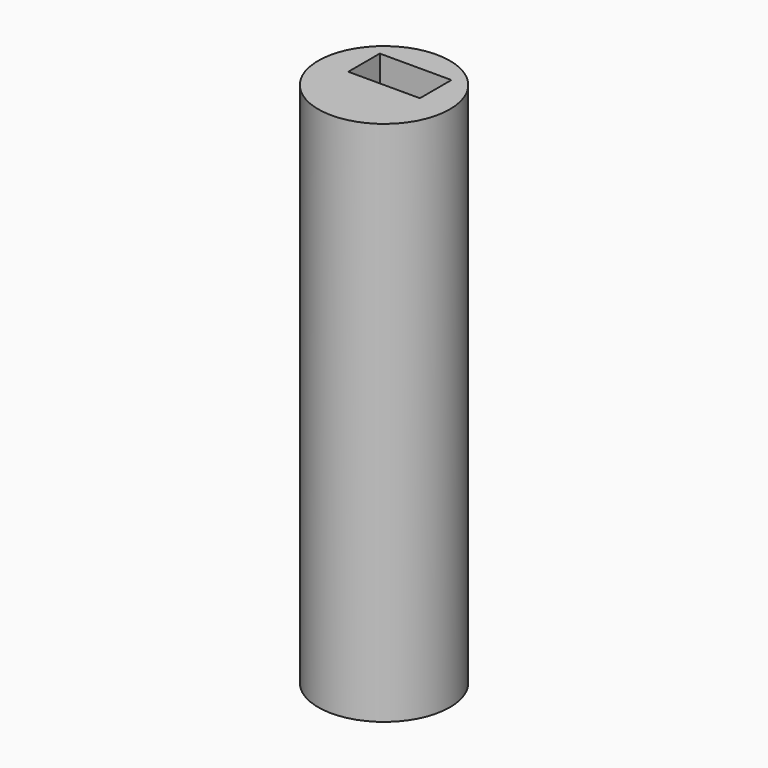
from build123d import *

# Parameters (mm, degrees)
F0_R     = 15
F1_DEPTH = 120
F2_W     = 16.33073
F2_H     = 8.984623
F3_DEPTH = 9.652


with BuildPart() as f1:
    # F0 (on Top) → F1 (new body)
    with BuildSketch(Plane.XY):
        Circle(F0_R)
    extrude(amount=-F1_DEPTH)

    # F2 (on Top) → F3 (cut)
    with BuildSketch(Plane.XY):
        with Locations((0, 4.492311)):
            Rectangle(F2_W, F2_H)
    extrude(amount=-F3_DEPTH, mode=Mode.SUBTRACT)


solid = f1.part
